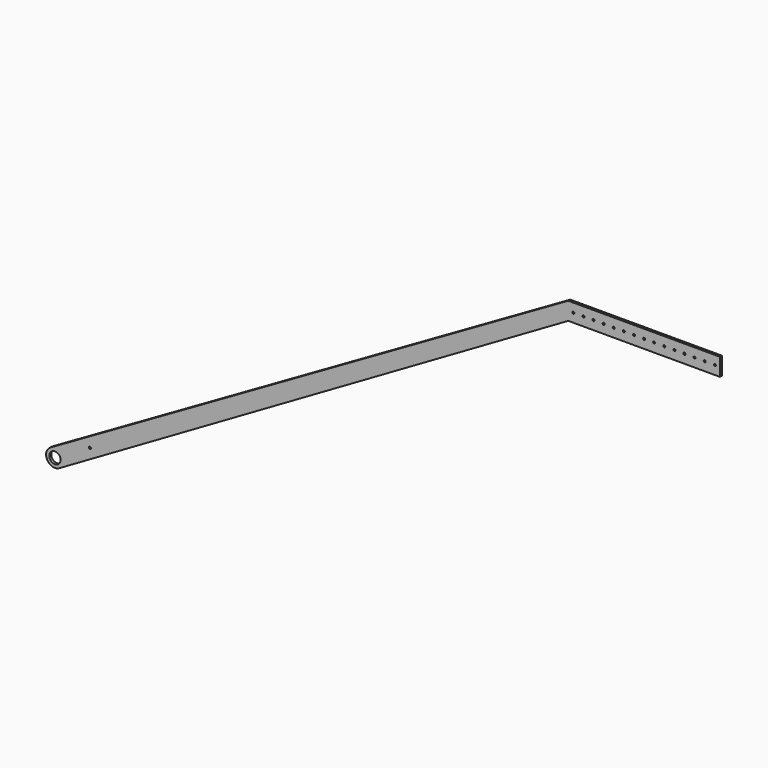
from build123d import *

# Parameters (mm, degrees)
F0_R     = 14.28115
F0_R_2   = 2.5527
F1_DEPTH = 6.35


with BuildPart() as f1:
    # F0 (on Front) → F1 (new body)
    with BuildSketch(Plane.XZ):
        with BuildLine():
            Line((1289.421224, 766.672692), (-11.1125, 19.247415))
            ThreePointArc((-11.1125, 19.247415), (-19.28566, -11.134581), (11.1125, -19.247415))
            Line((11.1125, -19.247415), (1289.421229, 722.222692))
            Line((1289.421229, 722.222692), (1289.421224, 766.672692))
        make_face()
        Circle(F0_R, mode=Mode.SUBTRACT)
        with Locations((87.988181, 50.8)):
            Circle(F0_R_2, mode=Mode.SUBTRACT)
        Polygon((1670.421226, 766.672692), (1289.421224, 766.672692), (1289.421229, 722.222692), (1670.421226, 722.222692), align=None)
        with Locations((1302.121226, 744.447692)):
            Circle(F0_R_2, mode=Mode.SUBTRACT)
        with Locations((1327.521226, 744.447692)):
            Circle(F0_R_2, mode=Mode.SUBTRACT)
        with Locations((1352.921226, 744.447692)):
            Circle(F0_R_2, mode=Mode.SUBTRACT)
        with Locations((1378.321226, 744.447692)):
            Circle(F0_R_2, mode=Mode.SUBTRACT)
        with Locations((1403.721226, 744.447692)):
            Circle(F0_R_2, mode=Mode.SUBTRACT)
        with Locations((1429.121226, 744.447692)):
            Circle(F0_R_2, mode=Mode.SUBTRACT)
        with Locations((1454.521226, 744.447692)):
            Circle(F0_R_2, mode=Mode.SUBTRACT)
        with Locations((1479.921226, 744.447692)):
            Circle(F0_R_2, mode=Mode.SUBTRACT)
        with Locations((1505.321226, 744.447692)):
            Circle(F0_R_2, mode=Mode.SUBTRACT)
        with Locations((1530.721226, 744.447692)):
            Circle(F0_R_2, mode=Mode.SUBTRACT)
        with Locations((1556.121226, 744.447692)):
            Circle(F0_R_2, mode=Mode.SUBTRACT)
        with Locations((1581.521226, 744.447692)):
            Circle(F0_R_2, mode=Mode.SUBTRACT)
        with Locations((1606.921226, 744.447692)):
            Circle(F0_R_2, mode=Mode.SUBTRACT)
        with Locations((1632.321226, 744.447692)):
            Circle(F0_R_2, mode=Mode.SUBTRACT)
        with Locations((1657.721226, 744.447692)):
            Circle(F0_R_2, mode=Mode.SUBTRACT)
    extrude(amount=F1_DEPTH)


solid = f1.part
